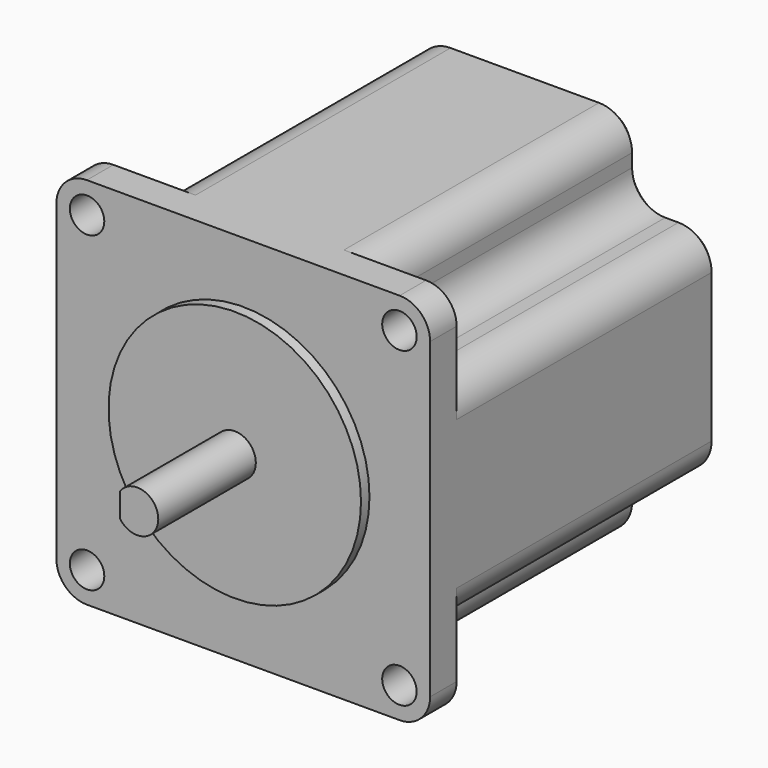
from build123d import *

# Parameters (mm, degrees)
F0_W      = 56.4
F0_H      = 56.4
F1_DEPTH  = 54.1
F2_R      = 19.05
F3_DEPTH  = 1.6
F4_R      = 3.175
F5_DEPTH  = 20
F6_R      = 2.6
F7_DEPTH  = 54.101
F9_DEPTH  = 15
F10_R     = 4.6
F11_W     = 12
F11_H     = 12
F12_DEPTH = 49.1
F13_R     = 5
F14_SIZE  = 1


with BuildPart() as f1:
    # F0 (on Front) → F1 (new body)
    with BuildSketch(Plane.XZ):
        Rectangle(F0_W, F0_H)
    extrude(amount=-F1_DEPTH)

    # F2 (on face) → F3 (join)
    with BuildSketch(Plane.XZ):
        Circle(F2_R)
    extrude(amount=F3_DEPTH)

    # F4 (on face) → F5 (join)
    with BuildSketch(Plane.XZ):
        Circle(F4_R)
    extrude(amount=F5_DEPTH)

    # F6 (on face) → F7 (cut, through all)
    with BuildSketch(Plane.XZ):
        with Locations((23.57, 23.57)):
            Circle(F6_R)
        with Locations((-23.57, 23.57)):
            Circle(F6_R)
        with Locations((23.57, -23.57)):
            Circle(F6_R)
        with Locations((-23.57, -23.57)):
            Circle(F6_R)
    extrude(amount=-F7_DEPTH, mode=Mode.SUBTRACT)

    # F8 (on face) → F9 (cut)
    with BuildSketch(Plane.XZ.offset(20)):
        with BuildLine():
            Line((-2.625, -1.7860571099), (-2.625, 1.7860571099))
            ThreePointArc((-2.625, 1.7860571099), (-3.175, 0), (-2.625, -1.7860571099))
        make_face()
    extrude(amount=-F9_DEPTH, mode=Mode.SUBTRACT)

    # F10
    f10_edges = [f1.edges().sort_by_distance(p)[0] for p in [
        (-28.2, 27.05, 28.2),
        (-28.2, 27.05, -28.2),
        (28.2, 27.05, 28.2),
        (28.2, 27.05, -28.2),
    ]]
    fillet(f10_edges, radius=F10_R)

    # F11 (on face) → F12 (cut)
    with BuildSketch(Plane(origin=(0, 54.1, 0), x_dir=(-1, 0, 0), z_dir=(0, 1, 0))):
        with Locations((22.2, 22.2)):
            Rectangle(F11_W, F11_H)
        with Locations((-22.2, 22.2)):
            Rectangle(F11_W, F11_H)
        with Locations((22.2, -22.2)):
            Rectangle(F11_W, F11_H)
        with Locations((-22.2, -22.2)):
            Rectangle(F11_W, F11_H)
    extrude(amount=-F12_DEPTH, mode=Mode.SUBTRACT)

    # F13
    f13_edges = [f1.edges().sort_by_distance(p)[0] for p in [
        (-16.2, 29.55, 28.2),
        (-16.2, 29.55, 16.2),
        (-28.2, 29.55, 16.2),
        (16.2, 29.55, 28.2),
        (16.2, 29.55, 16.2),
        (28.2, 29.55, 16.2),
        (28.2, 29.55, -16.2),
        (16.2, 29.55, -16.2),
        (16.2, 29.55, -28.2),
        (-16.2, 29.55, -28.2),
        (-16.2, 29.55, -16.2),
        (-28.2, 29.55, -16.2),
    ]]
    fillet(f13_edges, radius=F13_R)

    # F14
    f14_edges = [f1.edges().sort_by_distance(p)[0] for p in [
        (0, 54.1, 28.2),
    ]]
    chamfer(f14_edges, length=F14_SIZE)


solid = f1.part
